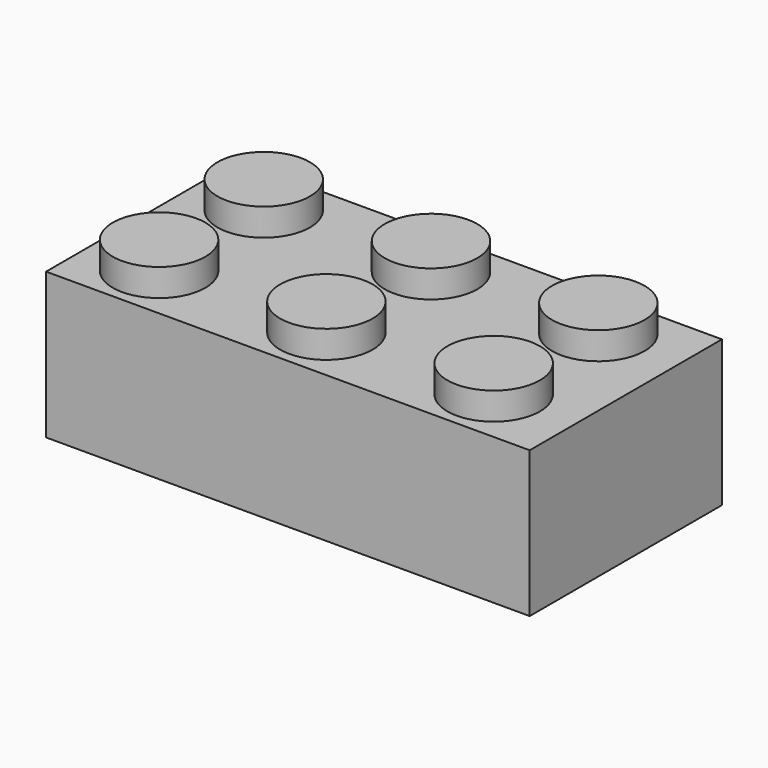
from build123d import *

# Parameters (mm, degrees)
F0_W     = 31.8
F0_H     = 15.8
F1_DEPTH = 9.6
F2_T     = -2.54
F3_R     = 3.043204
F4_DEPTH = 1.8


with BuildPart() as f1:
    # F0 (on Top) → F1 (new body)
    with BuildSketch(Plane.XY):
        with Locations((8.439594, 3.65301)):
            Rectangle(F0_W, F0_H)
    extrude(amount=-F1_DEPTH)

    # F2
    f2_openings = [f1.faces().sort_by_distance(p)[0] for p in [
        (8.439594, 3.65301, -9.6),
    ]]
    offset(amount=F2_T, openings=f2_openings)

    # F3 (on face) → F4 (join)
    with BuildSketch(Plane.XY):
        with Locations((19.01015, 8.054115)):
            Circle(F3_R)
        with Locations((19.01015, -0.545885)):
            Circle(F3_R)
        with Locations((8.01015, 8.054115)):
            Circle(F3_R)
        with Locations((8.01015, -0.545885)):
            Circle(F3_R)
        with Locations((-2.98985, 8.054115)):
            Circle(F3_R)
        with Locations((-2.98985, -0.545885)):
            Circle(F3_R)
    extrude(amount=F4_DEPTH)


solid = f1.part
